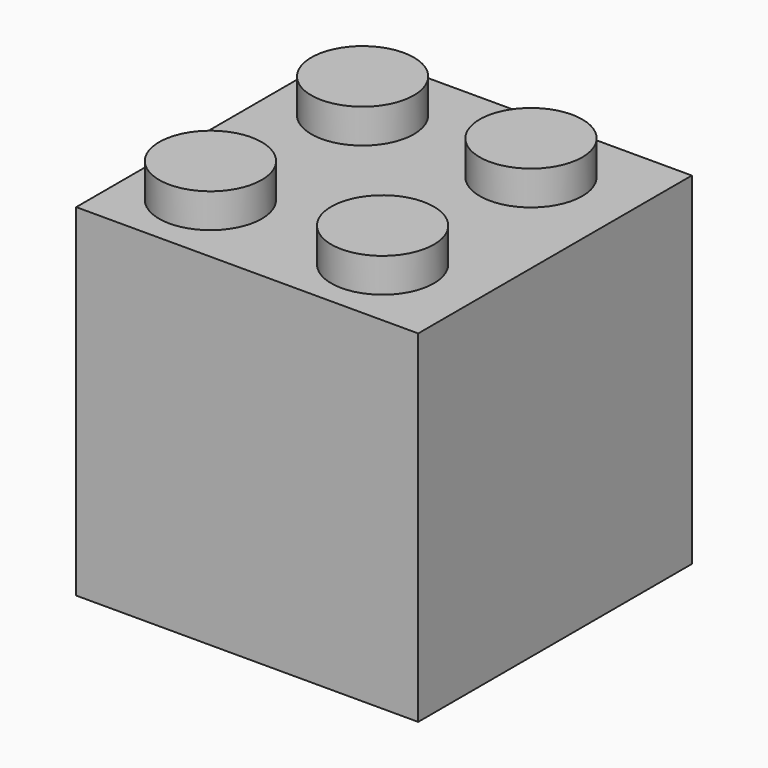
from build123d import *

# Parameters (mm, degrees)
F0_W     = 127
F0_H     = 127
F1_DEPTH = 127
F2_R     = 19.05
F3_DEPTH = 12.7


with BuildPart() as f1:
    # F0 (on Front) → F1 (new body)
    with BuildSketch(Plane.XZ):
        with Locations((0, -6.747968)):
            Rectangle(F0_W, F0_H)
    extrude(amount=F1_DEPTH)

    # F2 (on face) → F3 (join)
    with BuildSketch(Plane.XY.offset(56.752032)):
        with Locations((-34.680482, -30.083504)):
            Circle(F2_R)
        with Locations((27.728586, -29.925503)):
            Circle(F2_R)
        with Locations((-35.944462, -99.12847)):
            Circle(F2_R)
        with Locations((28.360575, -99.602461)):
            Circle(F2_R)
    extrude(amount=F3_DEPTH)


solid = f1.part
